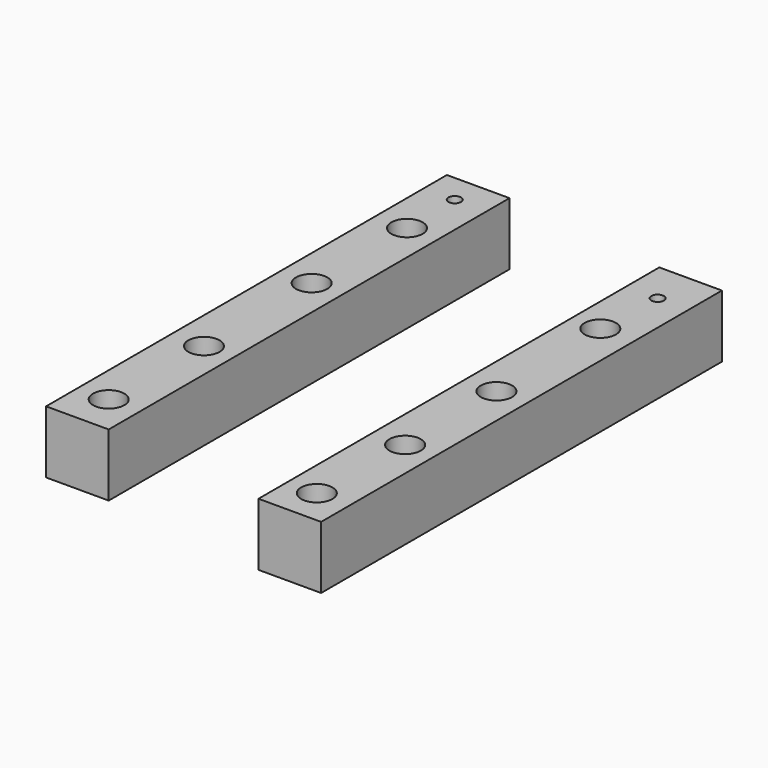
from build123d import *

# Parameters (mm, degrees)
F0_W     = 12.7
F0_H     = 101.6
F0_R     = 3.175
F0_R_2   = 1.27
F1_DEPTH = 12.7
F2_DEPTH = 12.7


with BuildPart() as f1:
    # F0 (on Top) → F1 (new body)
    with BuildSketch(Plane.XY):
        with Locations((-22.132422, 36.243791)):
            Rectangle(F0_W, F0_H)
        with Locations((-22.228505, -6.497295)):
            Circle(F0_R, mode=Mode.SUBTRACT)
        with Locations((-21.866854, 17.190853)):
            Circle(F0_R, mode=Mode.SUBTRACT)
        with Locations((-22.031246, 44.703726)):
            Circle(F0_R, mode=Mode.SUBTRACT)
        with Locations((-22.042921, 68.882763)):
            Circle(F0_R, mode=Mode.SUBTRACT)
        with Locations((-22.217549, 81.207171)):
            Circle(F0_R_2, mode=Mode.SUBTRACT)
    extrude(amount=F1_DEPTH)


with BuildPart() as f2:
    # F0 (on Top) → F2 (new body)
    with BuildSketch(Plane.XY):
        with Locations((23.928047, 32.50916)):
            Rectangle(F0_W, F0_H)
        with Locations((23.602946, -11.037993)):
            Circle(F0_R, mode=Mode.SUBTRACT)
        with Locations((24.178233, 10.631173)):
            Circle(F0_R, mode=Mode.SUBTRACT)
        with Locations((23.986468, 34.026202)):
            Circle(F0_R, mode=Mode.SUBTRACT)
        with Locations((23.411181, 61.064716)):
            Circle(F0_R, mode=Mode.SUBTRACT)
        with Locations((23.986468, 74.871622)):
            Circle(F0_R_2, mode=Mode.SUBTRACT)
    extrude(amount=F2_DEPTH)


solid = Compound([f1.part, f2.part])
